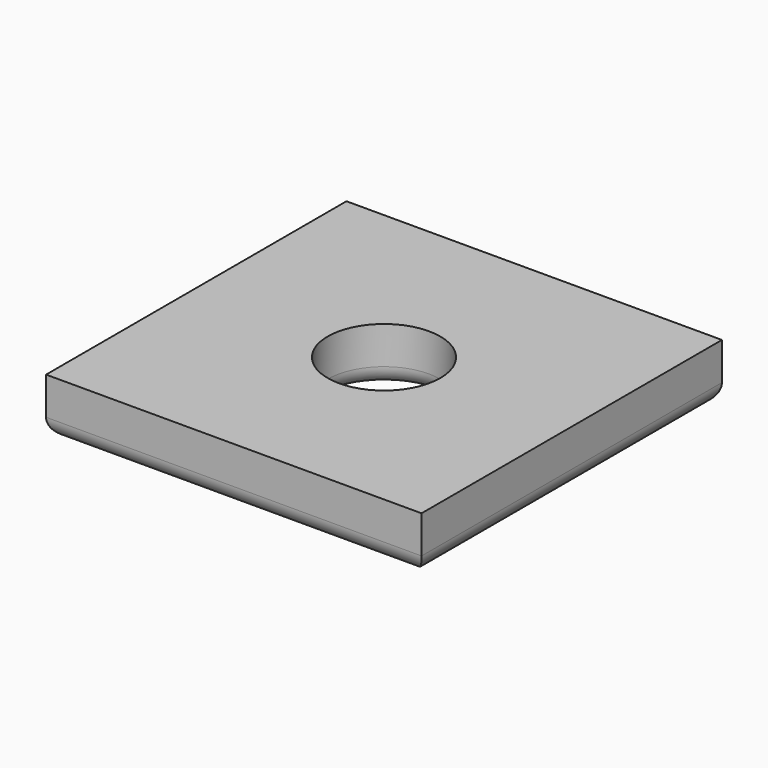
from build123d import *

# Parameters (mm, degrees)
F0_W     = 20
F0_H     = 20
F0_R     = 3
F1_DEPTH = 3
F2_R     = 1


with BuildPart() as f1:
    # F0 (on Top) → F1 (new body)
    with BuildSketch(Plane.XY):
        with Locations((10, 10)):
            Rectangle(F0_W, F0_H)
        with Locations((10, 10)):
            Circle(F0_R, mode=Mode.SUBTRACT)
    extrude(amount=F1_DEPTH)

    # F2
    f2_edges = [f1.edges().sort_by_distance(p)[0] for p in [
        (0, 10, 0),
        (10, 0, 0),
        (20, 10, 0),
        (10, 20, 0),
        (7, 10, 0),
    ]]
    fillet(f2_edges, radius=F2_R)


solid = f1.part
